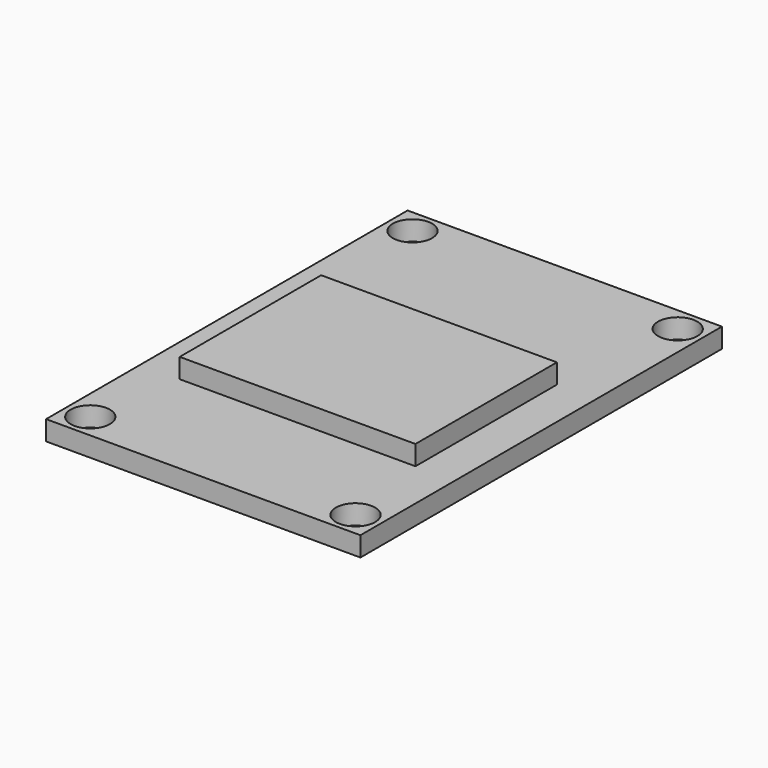
from build123d import *

# Parameters (mm, degrees)
F0_W     = 25.4
F0_H     = 36.5125
F0_R     = 1.5875
F1_DEPTH = 1.5875
F2_W     = 19.05
F2_H     = 14.2875
F3_DEPTH = 1.5875
F4_W     = 10
F4_H     = 3.175
F5_DEPTH = 3.175


with BuildPart() as f1:
    # F0 (on Top) → F1 (new body)
    with BuildSketch(Plane.XY):
        Rectangle(F0_W, F0_H)
        with Locations((-10.715625, -16.271875)):
            Circle(F0_R, mode=Mode.SUBTRACT)
        with Locations((10.715625, -16.271875)):
            Circle(F0_R, mode=Mode.SUBTRACT)
        with Locations((-10.715625, 16.271875)):
            Circle(F0_R, mode=Mode.SUBTRACT)
        with Locations((10.715625, 16.271875)):
            Circle(F0_R, mode=Mode.SUBTRACT)
    extrude(amount=F1_DEPTH)

    # F2 (on face) → F3 (join)
    with BuildSketch(Plane.XY.offset(1.5875)):
        with Locations((0, -1.5875)):
            Rectangle(F2_W, F2_H)
    extrude(amount=F3_DEPTH)

    # F4 (on face) → F5 (join)
    with BuildSketch(Plane(origin=(0, 0, 0), x_dir=(1, 0, 0), z_dir=(0, 0, -1))):
        with Locations((0, -16.66875)):
            Rectangle(F4_W, F4_H)
    extrude(amount=F5_DEPTH)


solid = f1.part
